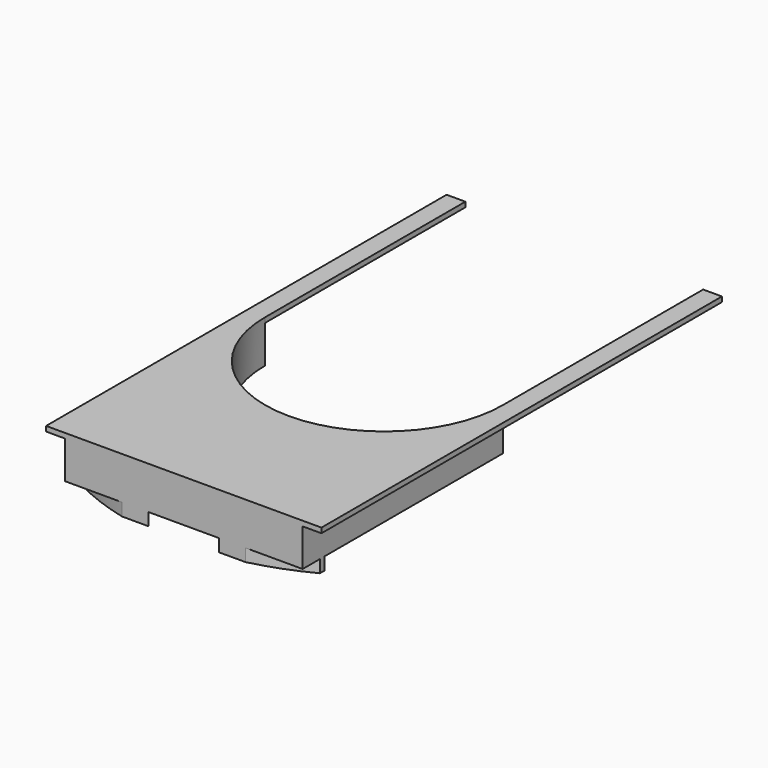
from build123d import *

# Parameters (mm, degrees)
F1_DEPTH = 10
F3_DEPTH = 75
F5_DEPTH = 25


with BuildPart() as f1:
    # F0 (on Top) → F1 (new body)
    with BuildSketch(Plane.XY):
        with BuildLine():
            ThreePointArc((237.5, 0), (0, -237.5), (-237.5, 0))
            Line((-237.5, 0), (-237.5, 500))
            Line((-237.5, 500), (-275, 500))
            Line((-275, 500), (-275, -500))
            Line((-275, -500), (275, -500))
            Line((275, -500), (275, 500))
            Line((275, 500), (237.5, 500))
            Line((237.5, 500), (237.5, 0))
        make_face()
    extrude(amount=F1_DEPTH)

    # F2 (on face) → F3 (join)
    with BuildSketch(Plane(origin=(0, 0, 0), x_dir=(1, 0, 0), z_dir=(0, 0, -1))):
        with BuildLine():
            Line((-237.5, 500), (-237.5, 0))
            ThreePointArc((-237.5, 0), (0, 237.5), (237.5, 0))
            Line((237.5, 0), (237.5, 500))
            Line((237.5, 500), (-237.5, 500))
        make_face()
    extrude(amount=F3_DEPTH)

    # F4 (on face) → F5 (join)
    with BuildSketch(Plane(origin=(0, 0, -75), x_dir=(1, 0, 0), z_dir=(0, 0, -1))):
        with BuildLine():
            ThreePointArc((70.887234, 500), (156.568516, 480.115923), (237.5, 445.666636))
            Line((237.5, 445.666636), (237.5, 456.966903))
            ThreePointArc((237.5, 456.966903), (181.723121, 481.873124), (123.389627, 500))
            Line((123.389627, 500), (70.887234, 500))
        make_face()
        with BuildLine():
            ThreePointArc((-123.389627, 500), (-181.723121, 481.873124), (-237.5, 456.966903))
            Line((-237.5, 456.966903), (-237.5, 445.666636))
            ThreePointArc((-237.5, 445.666636), (-156.568516, 480.115923), (-70.887234, 500))
            Line((-70.887234, 500), (-123.389627, 500))
        make_face()
    extrude(amount=F5_DEPTH)


solid = f1.part
